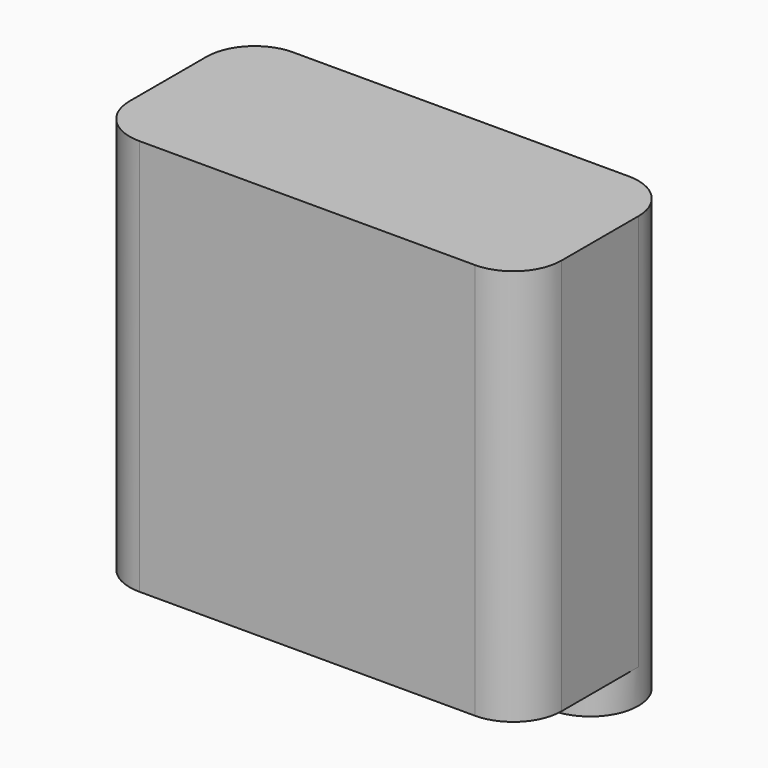
from build123d import *

# Parameters (mm, degrees)
F0_W     = 62.9
F0_H     = 57.8
F1_DEPTH = 28
F2_R     = 7
F4_DEPTH = 5


with BuildPart() as f1:
    # F0 (on Front) → F1 (new body)
    with BuildSketch(Plane.XZ):
        with Locations((31.45, 28.9)):
            Rectangle(F0_W, F0_H)
    extrude(amount=F1_DEPTH)

    # F2
    f2_edges = [f1.edges().sort_by_distance(p)[0] for p in [
        (0, -28, 28.9),
        (0, 0, 28.9),
        (62.9, -28, 28.9),
        (62.9, 0, 28.9),
    ]]
    fillet(f2_edges, radius=F2_R)

    # F3 (on face) → F4 (join)
    with BuildSketch(Plane(origin=(0, 0, 0), x_dir=(1, 0, 0), z_dir=(0, 0, -1))):
        with BuildLine():
            Line((55.9, 14), (42.9, 14))
            ThreePointArc((42.9, 14), (35.9, 7), (42.9, 0))
            Line((42.9, 0), (55.9, 0))
            ThreePointArc((55.9, 0), (62.9, 7), (55.9, 14))
        make_face()
    extrude(amount=F4_DEPTH)


solid = f1.part
